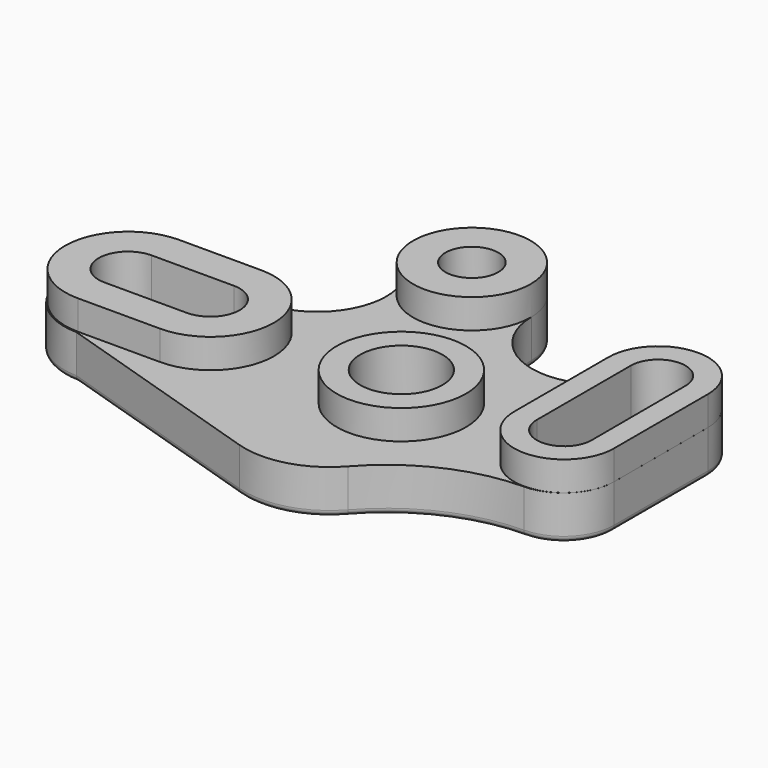
from build123d import *

# Parameters (mm, degrees)
PAD_DEPTH     = 15
SKETCH002_R   = 22
SKETCH002_R_2 = 20
PAD001_DEPTH  = 10
SKETCH003_R   = 14
SKETCH003_R_2 = 9
POCKET_DEPTH  = 25.001
FILLET_R      = 2


with BuildPart() as part:
    # Sketch001 → Pad (new body)
    with BuildSketch(Plane.XY):
        with BuildLine():
            ThreePointArc((-4.001783, 60.267039), (-27.516323, 79.68846), (-42.854311, 53.328048))
            ThreePointArc((-65, 22), (-45.817468, 31.931314), (-42.854311, 53.328048))
            Line((-93.003829, 22), (-65, 22))
            ThreePointArc((-93.003829, 22), (-114.725446, -0.00189), (-93, -22))
            Line((-93, -22), (-18.674332, -45.597431))
            ThreePointArc((-18.674332, -45.597431), (-2.258015, -45.890536), (11.6579, -37.176828))
            ThreePointArc((55.441584, -17.112662), (31.419941, -22.497129), (11.6579, -37.176828))
            ThreePointArc((55.441584, -17.112662), (67.417493, -12.032611), (72.361741, 0))
            Line((72.361741, 40), (72.361741, 0))
            ThreePointArc((72.361741, 40), (60.189509, 56.281378), (41.129486, 49.212994))
            ThreePointArc((-4.001783, 60.267039), (14.286503, 37.276529), (41.129486, 49.212994))
        make_face()
    extrude(amount=-PAD_DEPTH)

    # Sketch002 → Pad001 (join)
    with BuildSketch(Plane.XY):
        Circle(SKETCH002_R)
        with Locations((-24, 60)):
            Circle(SKETCH002_R_2)
        with BuildLine():
            ThreePointArc((38.411806, -0.000158), (55.383376, -16.971729), (72.354947, -0.000158))
            Line((72.354947, -0.000158), (72.354947, 39.999842))
            ThreePointArc((72.354947, 39.999842), (55.383376, 56.971412), (38.411806, 39.999842))
            Line((38.411806, -0.000158), (38.411806, 39.999842))
        make_face()
        with BuildLine():
            ThreePointArc((-64.880051, -21.530829), (-43.349222, 0), (-64.880051, 21.530829))
            Line((-64.880051, 21.530829), (-92.880051, 21.530829))
            ThreePointArc((-92.880051, 21.530829), (-114.410879, 0), (-92.880051, -21.530829))
            Line((-64.880051, -21.530829), (-92.880051, -21.530829))
        make_face()
    extrude(amount=PAD001_DEPTH)

    # Sketch003 (on DatumPlane) → Pocket (cut, through all)
    with BuildSketch(Plane.XY.offset(10)):
        Circle(SKETCH003_R)
        with Locations((-24, 60)):
            Circle(SKETCH003_R_2)
        with BuildLine():
            ThreePointArc((-65, -10), (-55, 0), (-65, 10))
            Line((-65, 10), (-93, 10))
            ThreePointArc((-93, 10), (-103, 0), (-93, -10))
            Line((-65, -10), (-93, -10))
        make_face()
        with BuildLine():
            ThreePointArc((46.082133, 0), (55.40953, -9.34775), (64.777588, -0.04075))
            Line((64.777588, -0.04075), (64.691415, 40))
            ThreePointArc((64.691415, 40), (55.386774, 49.304641), (46.082133, 40))
            Line((46.082133, 0), (46.082133, 40))
        make_face()
    extrude(amount=-POCKET_DEPTH, mode=Mode.SUBTRACT)

    # Fillet
    fillet_edges = [part.edges().sort_by_distance(p)[0] for p in [
        (-55.837166, -33.798715, -15),
        (-114.725446, -0.00189, -15),
        (-79.001914, 22, -15),
        (-103, 0, -15),
        (-79, -10, -15),
        (-55, 0, -15),
        (-79, 10, -15),
        (-45.817468, 31.931314, -15),
        (-27.516323, 79.68846, -15),
        (-33, 60, -15),
        (-14, 0, -15),
        (14.286503, 37.276529, -15),
        (60.189509, 56.281378, -15),
        (72.361741, 20, -15),
        (67.417493, -12.032611, -15),
        (31.419941, -22.497129, -15),
        (-2.258015, -45.890536, -15),
        (46.082133, 20, -15),
        (55.386774, 49.304641, -15),
        (64.734501, 19.979625, -15),
        (55.40953, -9.34775, -15),
    ]]
    fillet(fillet_edges, radius=FILLET_R)


solid = part.part
